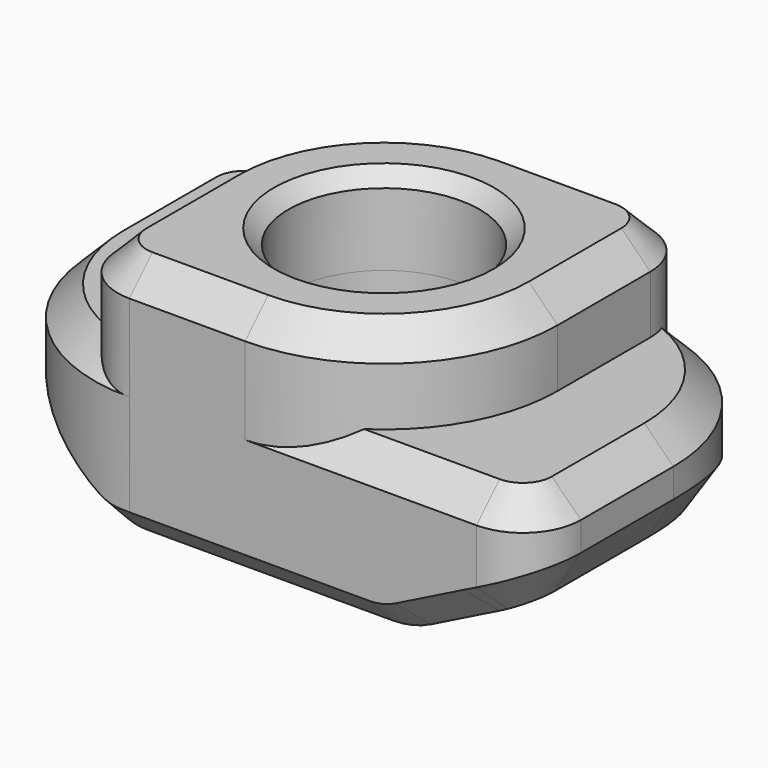
from build123d import *

# Parameters (mm, degrees)
SKETCH_W        = 10
SKETCH_H        = 6
PAD_DEPTH       = 2.75
SKETCH001_R     = 1.65
HOLE_DEPTH      = 25
FILLET_R        = 3
FILLET001_R     = 1
POCKET_DEPTH    = 6.001
FILLET002_R     = 1.5
CHAMFER_SIZE    = 0.5
SKETCH002_R     = 1.65
PAD001_DEPTH    = 2.5
CHAMFER001_SIZE = 0.5
CHAMFER002_SIZE = 0.25


with BuildPart() as part:
    # Sketch → Pad (new body)
    with BuildSketch(Plane.XY):
        Rectangle(SKETCH_W, SKETCH_H)
    extrude(amount=PAD_DEPTH)

    # Sketch001 (on Face6 of Pad) → Hole (cut)
    with BuildSketch(Plane.XY.offset(2.75)):
        Circle(SKETCH001_R)
    extrude(amount=-HOLE_DEPTH, mode=Mode.SUBTRACT)

    # Fillet
    fillet_edges = [part.edges().sort_by_distance(p)[0] for p in [
        (-5, -3, 1.375),
        (5, 3, 1.375),
    ]]
    fillet(fillet_edges, radius=FILLET_R)

    # Fillet001
    fillet001_edges = [part.edges().sort_by_distance(p)[0] for p in [
        (-5, 3, 1.375),
        (5, -3, 1.375),
    ]]
    fillet(fillet001_edges, radius=FILLET001_R)

    # Sketch003 → Pocket (cut, through all)
    with BuildSketch(Plane.XZ.offset(3)):
        Polygon((-5, 1.25), (-2.5, 0), (-5, 0), align=None)
        Polygon((5, 1.25), (5, 0), (2.5, 0), align=None)
    extrude(amount=-POCKET_DEPTH, mode=Mode.SUBTRACT)

    # Fillet002
    fillet002_edges = [part.edges().sort_by_distance(p)[0] for p in [
        (-2.5, 0.02098, 0),
        (2.5, -0.02098, 0),
    ]]
    fillet(fillet002_edges, radius=FILLET002_R)

    # Chamfer
    chamfer_edges = [part.edges().sort_by_distance(p)[0] for p in [
        (-1, 3, 2.75),
        (0.072949, -3, 0),
    ]]
    chamfer(chamfer_edges, length=CHAMFER_SIZE)

    # Sketch002 (on Face5 of Hole) → Pad001 (join)
    with BuildSketch(Plane.XY.offset(1.75)):
        with BuildLine():
            ThreePointArc((0, 3), (-2.12132, 2.12132), (-3, 0))
            Line((-3, 0), (-3, -2))
            ThreePointArc((-3, -2), (-2.707107, -2.707107), (-2, -3))
            Line((-2, -3), (0, -3))
            ThreePointArc((0, -3), (2.12132, -2.12132), (3, 0))
            Line((3, 2), (3, 0))
            ThreePointArc((3, 2), (2.707107, 2.707107), (2, 3))
            Line((0, 3), (2, 3))
        make_face()
        Circle(SKETCH002_R, mode=Mode.SUBTRACT)
    extrude(amount=PAD001_DEPTH)

    # Chamfer001
    chamfer001_edges = [part.edges().sort_by_distance(p)[0] for p in [
        (-1, -3, 4.25),
    ]]
    chamfer(chamfer001_edges, length=CHAMFER001_SIZE)

    # Chamfer002
    chamfer002_edges = [part.edges().sort_by_distance(p)[0] for p in [
        (-1.65, 0, 0),
        (1.65, 0, 2.125),
        (-1.65, 0, 4.25),
    ]]
    chamfer(chamfer002_edges, length=CHAMFER002_SIZE)


solid = part.part
